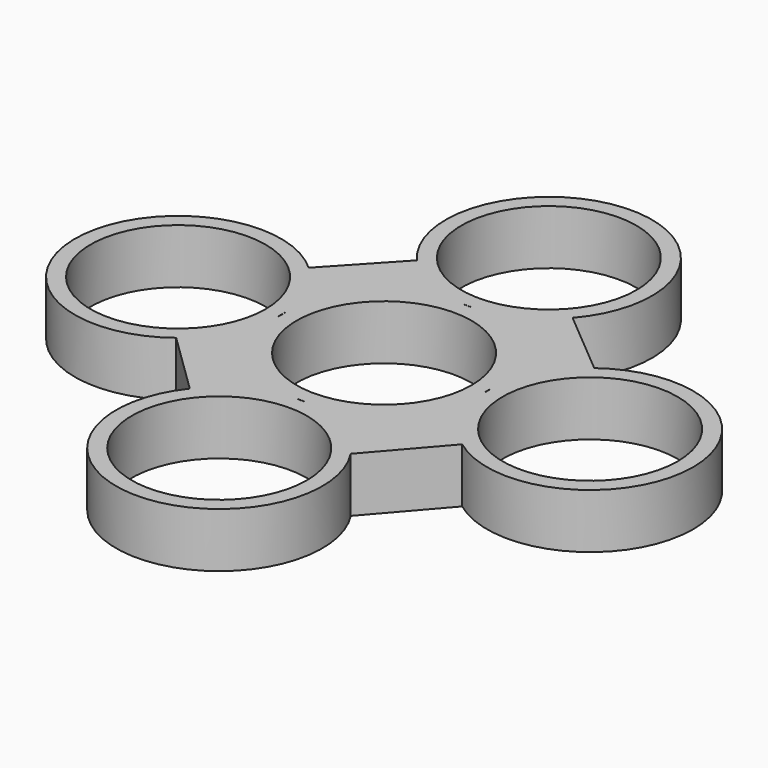
from build123d import *

# Parameters (mm, degrees)
F0_R     = 11.2
F1_DEPTH = 7


with BuildPart() as f1:
    # F0 (on Top) → F1 (new body)
    with BuildSketch(Plane.XY):
        with BuildLine():
            Line((18.45195, 10.563276), (9.960837, 17.706071))
            ThreePointArc((9.960837, 17.706071), (0, 39.56758), (-9.960837, 17.706071))
            Line((-9.960837, 17.706071), (-17.409332, 9.694833))
            ThreePointArc((-17.409332, 9.694833), (-39.555568, 0.563), (-18.268171, -10.423031))
            Line((-18.268171, -10.423031), (-10.338887, -18.161032))
            ThreePointArc((-10.338887, -18.161032), (-0.593339, -39.554238), (11.034129, -19.12272))
            Line((11.034129, -19.12272), (18.45195, -10.563276))
            ThreePointArc((18.45195, -10.563276), (39.56758, 0), (18.45195, 10.563276))
        make_face()
        with Locations((0, -26.36758)):
            Circle(F0_R, mode=Mode.SUBTRACT)
        with BuildLine():
            ThreePointArc((0.653977, -13.18379), (0, -13.2), (-0.653977, -13.18379))
            ThreePointArc((-0.653977, -13.18379), (0, -13.16758), (0.653977, -13.18379))
        make_face(mode=Mode.SUBTRACT)
        with BuildLine():
            ThreePointArc((13.18379, -0.653977), (13.16758, 0), (13.18379, 0.653977))
            ThreePointArc((13.18379, 0.653977), (13.2, 0), (13.18379, -0.653977))
        make_face(mode=Mode.SUBTRACT)
        with Locations((-26.36758, 0)):
            Circle(F0_R, mode=Mode.SUBTRACT)
        with BuildLine():
            ThreePointArc((-13.18379, -0.653977), (-13.2, 0), (-13.18379, 0.653977))
            ThreePointArc((-13.18379, 0.653977), (-13.16758, 0), (-13.18379, -0.653977))
        make_face(mode=Mode.SUBTRACT)
        Circle(F0_R, mode=Mode.SUBTRACT)
        with BuildLine():
            ThreePointArc((-0.653977, 13.18379), (0, 13.2), (0.653977, 13.18379))
            ThreePointArc((0.653977, 13.18379), (0, 13.16758), (-0.653977, 13.18379))
        make_face(mode=Mode.SUBTRACT)
        with Locations((26.36758, 0)):
            Circle(F0_R, mode=Mode.SUBTRACT)
        with Locations((0, 26.36758)):
            Circle(F0_R, mode=Mode.SUBTRACT)
    extrude(amount=F1_DEPTH)


solid = f1.part
